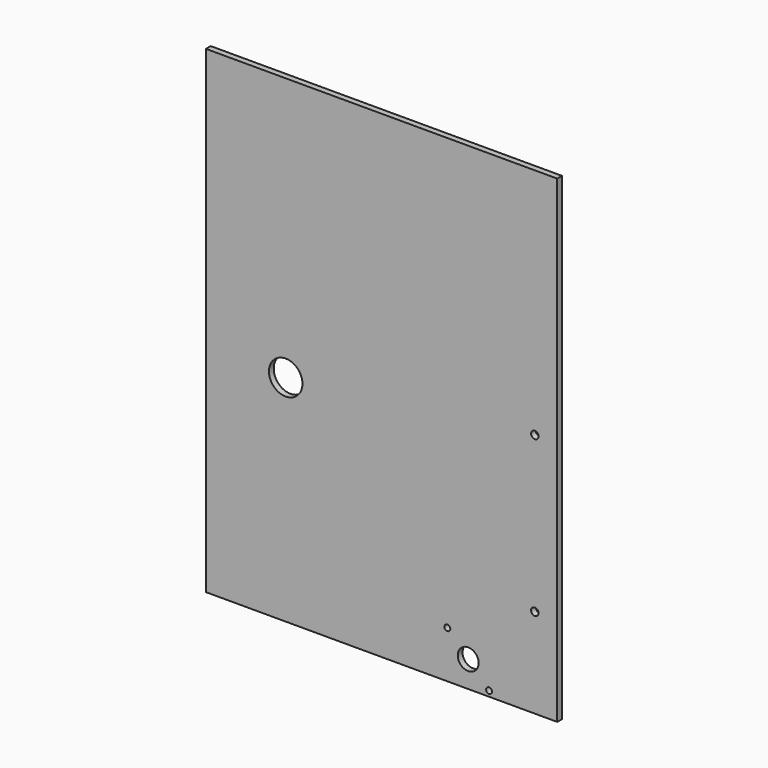
from build123d import *

# Parameters (mm, degrees)
F0_R     = 14.224
F0_R_2   = 8.89
F0_R_3   = 2.4892
F0_R_4   = 3.175
F1_DEPTH = 5.08


with BuildPart() as f1:
    # F0 (on Front) → F1 (new body)
    with BuildSketch(Plane.XZ):
        with BuildLine():
            Line((-67.723828, -182.5625), (0, -182.5625))
            ThreePointArc((0, -182.5625), (161.19312, -85.707902), (151.351172, 102.087654))
            Line((151.351172, 102.087654), (230.726172, 102.087654))
            Line((230.726172, 102.087654), (230.726172, 223.8375))
            Line((230.726172, 223.8375), (-67.723828, 223.8375))
            Line((-67.723828, 223.8375), (-67.723828, -182.5625))
        make_face()
        Circle(F0_R, mode=Mode.SUBTRACT)
        with BuildLine():
            ThreePointArc((151.351172, 102.087654), (161.19312, -85.707902), (0, -182.5625))
            Line((0, -182.5625), (131.587777, -182.5625))
            Line((131.587777, -182.5625), (178.577777, -182.5625))
            Line((178.577777, -182.5625), (230.726172, -182.5625))
            Line((230.726172, -182.5625), (230.726172, 102.087654))
            Line((230.726172, 102.087654), (151.351172, 102.087654))
        make_face()
        with Locations((155.082777, -160.2613)):
            Circle(F0_R_2, mode=Mode.SUBTRACT)
        with Locations((137.353577, -142.5321)):
            Circle(F0_R_3, mode=Mode.SUBTRACT)
        with Locations((172.811977, -177.9905)):
            Circle(F0_R_3, mode=Mode.SUBTRACT)
        with Locations((211.676172, -106.3625)):
            Circle(F0_R_4, mode=Mode.SUBTRACT)
        with Locations((211.676172, 25.887654)):
            Circle(F0_R_4, mode=Mode.SUBTRACT)
    extrude(amount=F1_DEPTH)


solid = f1.part
